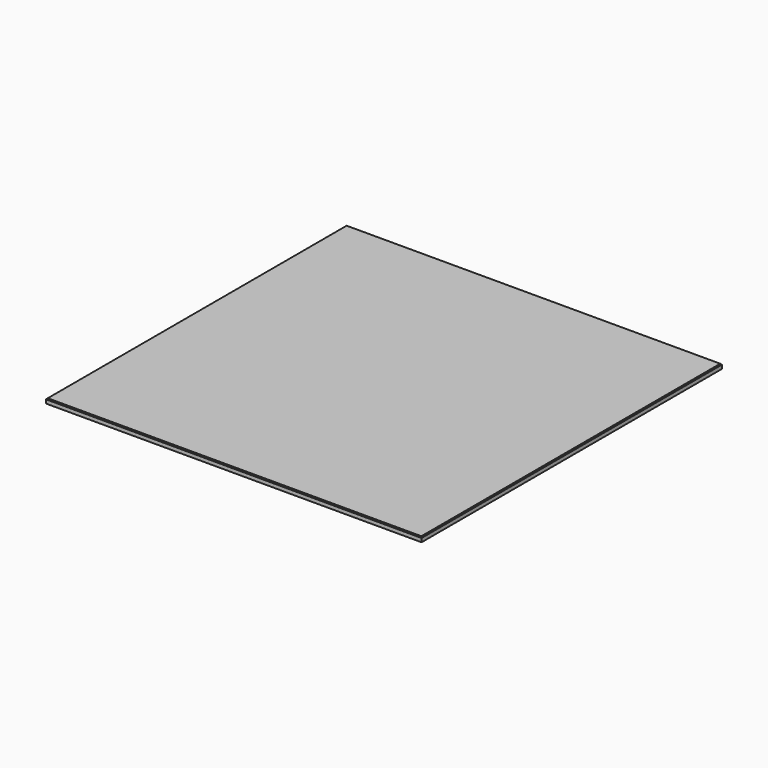
from build123d import *

# Parameters (mm, degrees)
F0_W     = 508
F0_H     = 508
F1_DEPTH = 6.35
F2_SIZE  = 1.27


with BuildPart() as f1:
    # F0 (on Top) → F1 (new body)
    with BuildSketch(Plane.XY):
        Rectangle(F0_W, F0_H)
    extrude(amount=F1_DEPTH)

    # F2
    f2_edges = [f1.edges().sort_by_distance(p)[0] for p in [
        (254, 0, 6.35),
        (0, 254, 6.35),
        (-254, 0, 6.35),
        (0, -254, 6.35),
    ]]
    chamfer(f2_edges, length=F2_SIZE)


solid = f1.part
